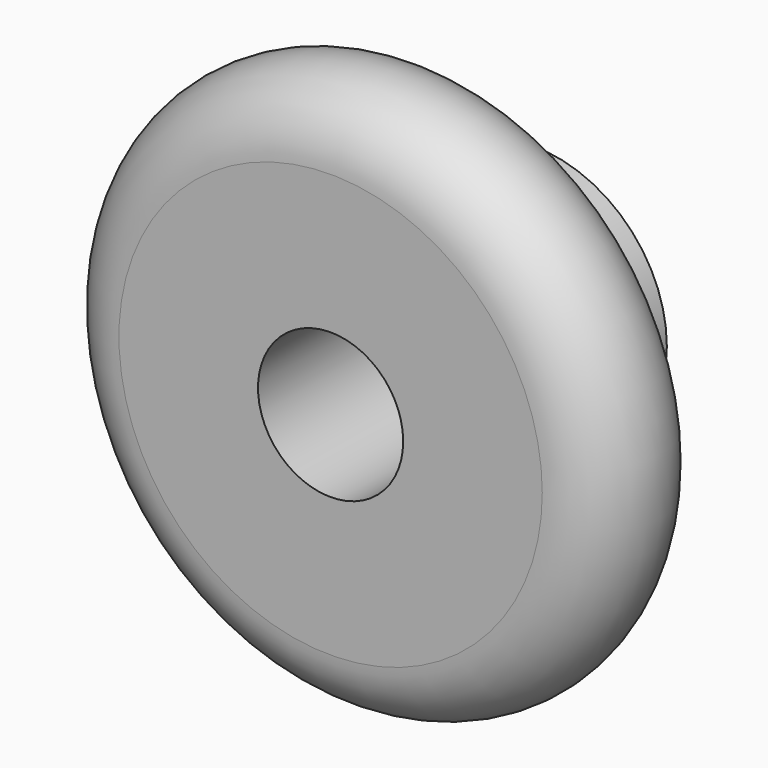
from build123d import *


with BuildPart() as f1:
    # F0 (on Top) → F1 (revolve)
    with BuildSketch(Plane.XY):
        with BuildLine():
            Line((3, -2.75), (8.75, -2.75))
            ThreePointArc((8.75, -2.75), (11.5, 0), (8.75, 2.75))
            Line((8.75, 2.75), (5.5, 2.75))
            Line((5.5, 2.75), (5.5, 7.75))
            Line((5.5, 7.75), (3, 7.75))
            Line((3, 7.75), (3, -2.75))
        make_face()
    revolve(axis=Axis((0, 2.954317, 0), (0, 1, 0)))


solid = f1.part
